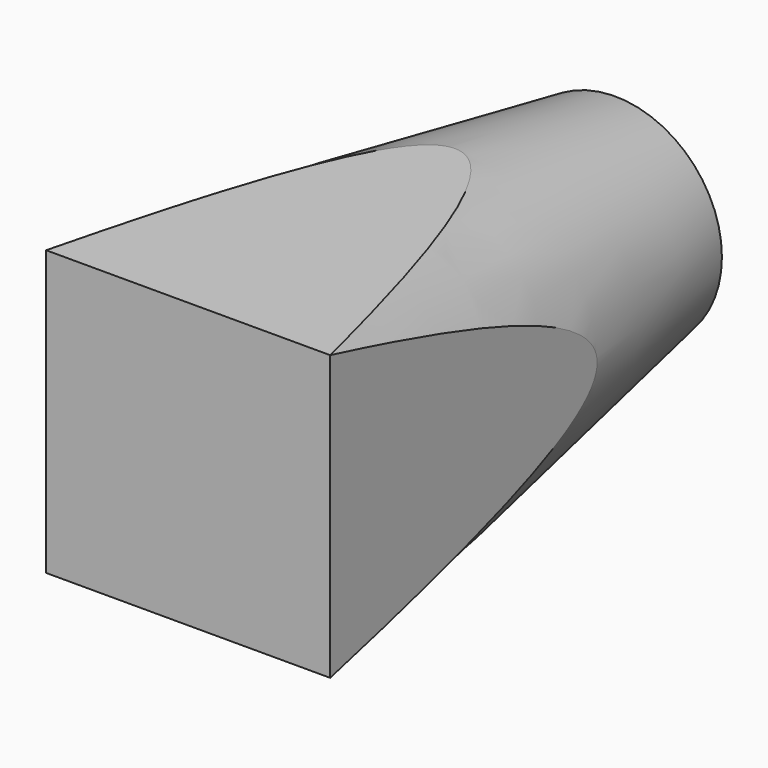
from build123d import *

# Parameters (mm, degrees)
F0_R     = 10
F1_DEPTH = 50
F1_TAPER = -10
F2_W     = 26.6103360002
F2_H     = 26.6103360002
F3_DEPTH = 50


with BuildPart() as f1:
    # F0 (on Front) → F1 (new body)
    with BuildSketch(Plane.XZ):
        Circle(F0_R)
    extrude(amount=F1_DEPTH, taper=F1_TAPER)

    # F2 (on face) → F3 (intersect)
    with BuildSketch(Plane.XZ.offset(50)):
        Rectangle(F2_W, F2_H)
    extrude(amount=-F3_DEPTH, mode=Mode.INTERSECT)


solid = f1.part
